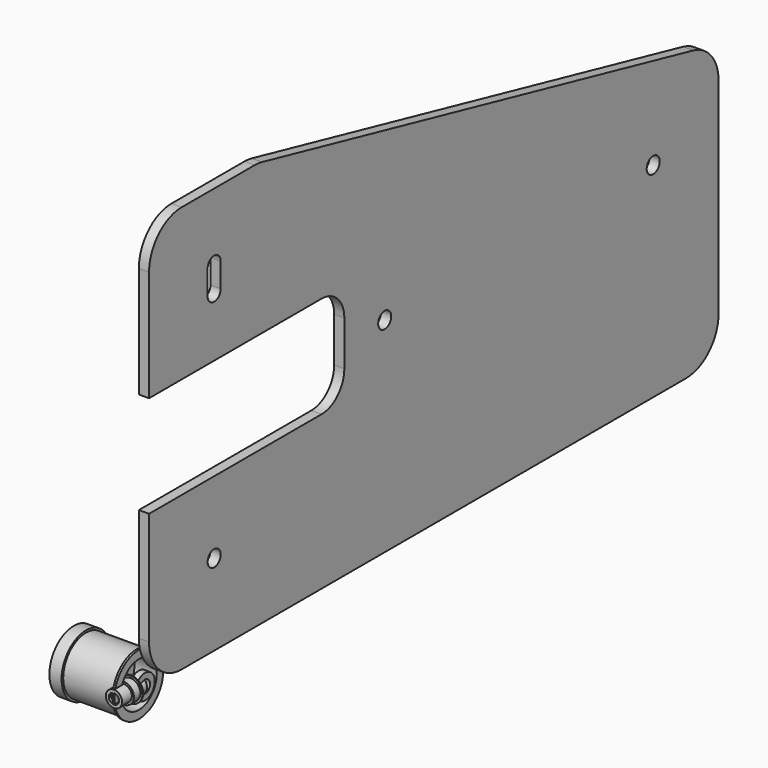
from build123d import *

# Parameters (mm, degrees)
F1_DEPTH  = 5
F2_D      = 8
F4_DEPTH  = 5.001
F5_R      = 15
F6_DEPTH  = 1
F7_R      = 14
F8_DEPTH  = 25
F9_R      = 15
F9_R_2    = 14
F10_DEPTH = 6
F11_R     = 11
F12_DEPTH = 11
F13_R     = 4
F14_DEPTH = 4
F17_R     = 6
F17_R_2   = 3.1
F18_DEPTH = 3


with BuildPart() as f1:
    # F0 (on Right) → F1 (new body)
    with BuildSketch(Plane.YZ):
        with BuildLine():
            ThreePointArc((0, 20), (5.8578643763, 5.8578643763), (20, 0))
            Line((20, 0), (330, 0))
            ThreePointArc((330, 0), (344.1421356237, 5.8578643763), (350, 20))
            Line((350, 20), (350, 120.5663343317))
            ThreePointArc((350, 120.5663343317), (345.6128569451, 133.065882244), (334.3761301989, 140.081699675))
            Line((334.3761301989, 140.081699675), (69.3315253799, 199.5153653433))
            ThreePointArc((69.3315253799, 199.5153653433), (67.1568371101, 199.8784721101), (64.955395181, 200))
            Line((64.955395181, 200), (20, 200))
            ThreePointArc((20, 200), (5.8578643763, 194.1421356237), (0, 180))
            Line((0, 180), (0, 125.5))
            Line((0, 125.5), (106, 125.5))
            ThreePointArc((106, 125.5), (115.8994949366, 121.3994949366), (120, 111.5))
            Line((120, 111.5), (120, 89.5))
            ThreePointArc((120, 89.5), (115.8994949366, 79.6005050634), (106, 75.5))
            Line((106, 75.5), (0, 75.5))
            Line((0, 75.5), (0, 20))
        make_face()
        with BuildLine():
            ThreePointArc((0, 20), (5.8578643763, 5.8578643763), (20, 0))
            Line((20, 0), (330, 0))
            ThreePointArc((330, 0), (344.1421356237, 5.8578643763), (350, 20))
            Line((350, 20), (350, 120.5663343317))
            ThreePointArc((350, 120.5663343317), (345.6128569451, 133.065882244), (334.3761301989, 140.081699675))
            Line((334.3761301989, 140.081699675), (69.3315253799, 199.5153653433))
            ThreePointArc((69.3315253799, 199.5153653433), (67.1568371101, 199.8784721101), (64.955395181, 200))
            Line((64.955395181, 200), (20, 200))
            ThreePointArc((20, 200), (5.8578643763, 194.1421356237), (0, 180))
            Line((0, 180), (0, 125.5))
            Line((0, 125.5), (106, 125.5))
            ThreePointArc((106, 125.5), (115.8994949366, 121.3994949366), (120, 111.5))
            Line((120, 111.5), (120, 89.5))
            ThreePointArc((120, 89.5), (115.8994949366, 79.6005050634), (106, 75.5))
            Line((106, 75.5), (0, 75.5))
            Line((0, 75.5), (0, 20))
        make_face()
        with BuildLine():
            ThreePointArc((0, 20), (5.8578643763, 5.8578643763), (20, 0))
            Line((20, 0), (330, 0))
            ThreePointArc((330, 0), (344.1421356237, 5.8578643763), (350, 20))
            Line((350, 20), (350, 120.5663343317))
            ThreePointArc((350, 120.5663343317), (345.6128569451, 133.065882244), (334.3761301989, 140.081699675))
            Line((334.3761301989, 140.081699675), (69.3315253799, 199.5153653433))
            ThreePointArc((69.3315253799, 199.5153653433), (67.1568371101, 199.8784721101), (64.955395181, 200))
            Line((64.955395181, 200), (20, 200))
            ThreePointArc((20, 200), (5.8578643763, 194.1421356237), (0, 180))
            Line((0, 180), (0, 125.5))
            Line((0, 125.5), (106, 125.5))
            ThreePointArc((106, 125.5), (115.8994949366, 121.3994949366), (120, 111.5))
            Line((120, 111.5), (120, 89.5))
            ThreePointArc((120, 89.5), (115.8994949366, 79.6005050634), (106, 75.5))
            Line((106, 75.5), (0, 75.5))
            Line((0, 75.5), (0, 20))
        make_face()
        with BuildLine():
            ThreePointArc((0, 20), (5.8578643763, 5.8578643763), (20, 0))
            Line((20, 0), (330, 0))
            ThreePointArc((330, 0), (344.1421356237, 5.8578643763), (350, 20))
            Line((350, 20), (350, 120.5663343317))
            ThreePointArc((350, 120.5663343317), (345.6128569451, 133.065882244), (334.3761301989, 140.081699675))
            Line((334.3761301989, 140.081699675), (69.3315253799, 199.5153653433))
            ThreePointArc((69.3315253799, 199.5153653433), (67.1568371101, 199.8784721101), (64.955395181, 200))
            Line((64.955395181, 200), (20, 200))
            ThreePointArc((20, 200), (5.8578643763, 194.1421356237), (0, 180))
            Line((0, 180), (0, 125.5))
            Line((0, 125.5), (106, 125.5))
            ThreePointArc((106, 125.5), (115.8994949366, 121.3994949366), (120, 111.5))
            Line((120, 111.5), (120, 89.5))
            ThreePointArc((120, 89.5), (115.8994949366, 79.6005050634), (106, 75.5))
            Line((106, 75.5), (0, 75.5))
            Line((0, 75.5), (0, 20))
        make_face()
    extrude(amount=F1_DEPTH)

    # F2 (through all)
    with Locations(Plane(origin=(0, 0, 0), x_dir=(0, 1, 0), z_dir=(-1, 0, 0))):
        with Locations((144.7890738579, -100.5), (309.799925871, -100.5), (40, -161), (40, -40)):
            Hole(F2_D / 2)

    # F3 (on face) → F4 (cut, through all)
    with BuildSketch(Plane.YZ.offset(5)):
        with BuildLine():
            ThreePointArc((36, 161), (40, 165), (44, 161))
            Line((44, 161), (44, 166.999999468))
            ThreePointArc((44, 166.999999468), (40.000000532, 170.999999468), (36, 167.000000532))
            Line((36, 167.000000532), (36, 161))
        make_face()
        with BuildLine():
            ThreePointArc((36, 155.000000532), (39.999999468, 150.999999468), (44, 154.999999468))
            Line((44, 154.999999468), (44, 161))
            ThreePointArc((44, 161), (40, 157), (36, 161))
            Line((36, 161), (36, 155.000000532))
        make_face()
    extrude(amount=-F4_DEPTH, mode=Mode.SUBTRACT)


with BuildPart() as f6:
    # F5 (on Right) → F6 (new body)
    with BuildSketch(Plane.YZ):
        Circle(F5_R)
    extrude(amount=-F6_DEPTH)

    # F7 (on face) → F8 (join)
    with BuildSketch(Plane(origin=(-1, 0, 0), x_dir=(0, -1, 0), z_dir=(-1, 0, 0))):
        Circle(F7_R)
    extrude(amount=F8_DEPTH)

    # F9 (on face) → F10 (join)
    with BuildSketch(Plane(origin=(-26, 0, 0), x_dir=(0, -1, 0), z_dir=(-1, 0, 0))):
        Circle(F9_R)
        Circle(F9_R_2, mode=Mode.SUBTRACT)
        Circle(F9_R_2)
    extrude(amount=F10_DEPTH)

    # F11 (on Right) → F12 (cut)
    with BuildSketch(Plane.YZ):
        Circle(F11_R)
    extrude(amount=-F12_DEPTH, mode=Mode.SUBTRACT)

    # F13 (on face) → F14 (cut)
    with BuildSketch(Plane(origin=(-32, 0, 0), x_dir=(0, -1, 0), z_dir=(-1, 0, 0))):
        with Locations((-6, 0)):
            Circle(F13_R)
    extrude(amount=-F14_DEPTH, mode=Mode.SUBTRACT)


with BuildPart() as f16:
    # F15 (on Right) → F16 (revolve)
    with BuildSketch(Plane.YZ):
        Polygon((0, -4), (0, -2.5), (-15.3, -2.5), (-15.3, -4), (-9.3, -4), (-9.3, -5), (-5.3, -5), (-5.3, -6), (-4.8, -6), (-4.8, -4), align=None)
    revolve(axis=Axis((0, -7.65, 0), (0, -1, 0)))


with BuildPart() as f18:
    # F17 (on Right) → F18 (new body)
    with BuildSketch(Plane.YZ):
        Circle(F17_R)
        Circle(F17_R_2, mode=Mode.SUBTRACT)
    extrude(amount=F18_DEPTH)


solid = Compound([f1.part, f6.part, f16.part, f18.part])
